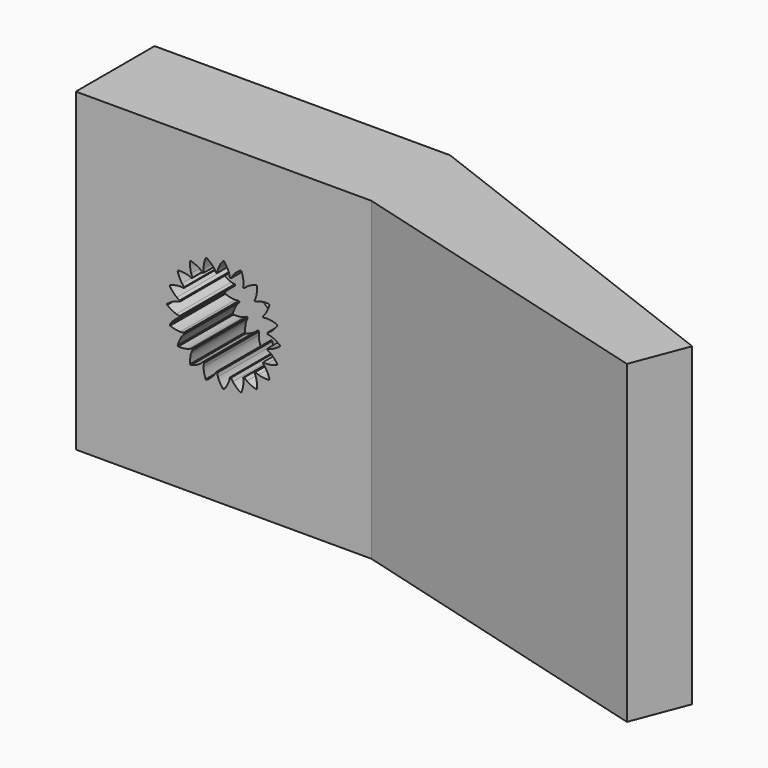
from build123d import *

# Parameters (mm, degrees)
EXTRUDE_DEPTH           = 10
EXTRUDE_PLACEMENT_ANGLE = 90
PAD_DEPTH               = 16
SKETCH003_R             = 1
POCKET001_DEPTH         = 5


with BuildPart() as extrude_body:
    # InvoluteGear → Extrude (new body)
    with BuildSketch(Plane.XY):
        with BuildLine():
            add(Edge.make_bspline(
                [(2.230951, -0.318585), (2.268323, -0.316088), (2.326191, -0.307758), (2.402921, -0.283523)],
                knots=[0, 0, 0, 0, 1, 1, 1, 1], degree=3))
            add(Edge.make_bspline(
                [(2.402921, -0.283523), (2.521883, -0.245647), (2.680793, -0.171115), (2.86047, -0.026137)],
                knots=[0, 0, 0, 0, 1, 1, 1, 1], degree=3))
            ThreePointArc((2.86047, -0.026137), (2.860295, 0.000166), (2.859878, 0.026465))
            add(Edge.make_bspline(
                [(2.859878, 0.026465), (2.680793, 0.171115), (2.521883, 0.245647), (2.402921, 0.283523)],
                knots=[0, 0, 0, 0, 1, 1, 1, 1], degree=3))
            add(Edge.make_bspline(
                [(2.402921, 0.283523), (2.326191, 0.307758), (2.268323, 0.316088), (2.231065, 0.318569)],
                knots=[0, 0, 0, 0, 1, 1, 1, 1], degree=3))
            ThreePointArc((2.231065, 0.318569), (2.222816, 0.352038), (2.220209, 0.38641))
            add(Edge.make_bspline(
                [(2.220209, 0.38641), (2.25498, 0.400333), (2.307442, 0.426137), (2.372927, 0.472897)],
                knots=[0, 0, 0, 0, 1, 1, 1, 1], degree=3))
            add(Edge.make_bspline(
                [(2.372927, 0.472897), (2.474363, 0.545681), (2.602463, 0.665671), (2.728545, 0.859076)],
                knots=[0, 0, 0, 0, 1, 1, 1, 1], degree=3))
            ThreePointArc((2.728545, 0.859076), (2.720251, 0.884037), (2.711727, 0.908921))
            add(Edge.make_bspline(
                [(2.711727, 0.908921), (2.496708, 0.99115), (2.322544, 1.012929), (2.1977, 1.01219)],
                knots=[0, 0, 0, 0, 1, 1, 1, 1], degree=3))
            add(Edge.make_bspline(
                [(2.1977, 1.01219), (2.117237, 1.011528), (2.059627, 1.001568), (2.023426, 0.992414)],
                knots=[0, 0, 0, 0, 1, 1, 1, 1], degree=3))
            ThreePointArc((2.023426, 0.992414), (2.005238, 1.021696), (1.992137, 1.05358))
            add(Edge.make_bspline(
                [(1.992137, 1.05358), (2.020904, 1.077567), (2.062824, 1.118319), (2.110654, 1.183027)],
                knots=[0, 0, 0, 0, 1, 1, 1, 1], degree=3))
            add(Edge.make_bspline(
                [(2.110654, 1.183027), (2.184634, 1.283593), (2.269386, 1.437296), (2.329531, 1.660197)],
                knots=[0, 0, 0, 0, 1, 1, 1, 1], degree=3))
            ThreePointArc((2.329531, 1.660197), (2.313929, 1.681373), (2.298134, 1.702405))
            add(Edge.make_bspline(
                [(2.298134, 1.702405), (2.068228, 1.714165), (1.895859, 1.681058), (1.777353, 1.641776)],
                knots=[0, 0, 0, 0, 1, 1, 1, 1], degree=3))
            add(Edge.make_bspline(
                [(1.777353, 1.641776), (1.701032, 1.616282), (1.649321, 1.589007), (1.617719, 1.569115)],
                knots=[0, 0, 0, 0, 1, 1, 1, 1], degree=3))
            ThreePointArc((1.617719, 1.569115), (1.591373, 1.591343), (1.569061, 1.617618))
            add(Edge.make_bspline(
                [(1.569061, 1.617618), (1.589007, 1.649321), (1.616282, 1.701032), (1.641776, 1.777353)],
                knots=[0, 0, 0, 0, 1, 1, 1, 1], degree=3))
            add(Edge.make_bspline(
                [(1.641776, 1.777353), (1.681058, 1.895859), (1.714165, 2.068228), (1.702487, 2.298806)],
                knots=[0, 0, 0, 0, 1, 1, 1, 1], degree=3))
            ThreePointArc((1.702487, 2.298806), (1.681105, 2.314124), (1.659583, 2.329245))
            add(Edge.make_bspline(
                [(1.659583, 2.329245), (1.437296, 2.269386), (1.283593, 2.184634), (1.183027, 2.110654)],
                knots=[0, 0, 0, 0, 1, 1, 1, 1], degree=3))
            add(Edge.make_bspline(
                [(1.183027, 2.110654), (1.118319, 2.062824), (1.077567, 2.020904), (1.053659, 1.99222)],
                knots=[0, 0, 0, 0, 1, 1, 1, 1], degree=3))
            ThreePointArc((1.053659, 1.99222), (1.021734, 2.005219), (0.992394, 2.023312))
            add(Edge.make_bspline(
                [(0.992394, 2.023312), (1.001568, 2.059627), (1.011528, 2.117237), (1.01219, 2.1977)],
                knots=[0, 0, 0, 0, 1, 1, 1, 1], degree=3))
            add(Edge.make_bspline(
                [(1.01219, 2.1977), (1.012929, 2.322544), (0.99115, 2.496708), (0.908791, 2.712392)],
                knots=[0, 0, 0, 0, 1, 1, 1, 1], degree=3))
            ThreePointArc((0.908791, 2.712392), (0.883722, 2.720353), (0.858581, 2.728083))
            add(Edge.make_bspline(
                [(0.858581, 2.728083), (0.665671, 2.602463), (0.545681, 2.474363), (0.472897, 2.372927)],
                knots=[0, 0, 0, 0, 1, 1, 1, 1], degree=3))
            add(Edge.make_bspline(
                [(0.472897, 2.372927), (0.426137, 2.307442), (0.400333, 2.25498), (0.38646, 2.220312)],
                knots=[0, 0, 0, 0, 1, 1, 1, 1], degree=3))
            ThreePointArc((0.38646, 2.220312), (0.35208, 2.22281), (0.318585, 2.230951))
            add(Edge.make_bspline(
                [(0.318585, 2.230951), (0.316088, 2.268323), (0.307758, 2.326191), (0.283523, 2.402921)],
                knots=[0, 0, 0, 0, 1, 1, 1, 1], degree=3))
            add(Edge.make_bspline(
                [(0.283523, 2.402921), (0.245647, 2.521883), (0.171115, 2.680793), (0.026137, 2.86047)],
                knots=[0, 0, 0, 0, 1, 1, 1, 1], degree=3))
            ThreePointArc((0.026137, 2.86047), (-0.000166, 2.860295), (-0.026465, 2.859878))
            add(Edge.make_bspline(
                [(-0.026465, 2.859878), (-0.171115, 2.680793), (-0.245647, 2.521883), (-0.283523, 2.402921)],
                knots=[0, 0, 0, 0, 1, 1, 1, 1], degree=3))
            add(Edge.make_bspline(
                [(-0.283523, 2.402921), (-0.307758, 2.326191), (-0.316088, 2.268323), (-0.318569, 2.231065)],
                knots=[0, 0, 0, 0, 1, 1, 1, 1], degree=3))
            ThreePointArc((-0.318569, 2.231065), (-0.352038, 2.222816), (-0.38641, 2.220209))
            add(Edge.make_bspline(
                [(-0.38641, 2.220209), (-0.400333, 2.25498), (-0.426137, 2.307442), (-0.472897, 2.372927)],
                knots=[0, 0, 0, 0, 1, 1, 1, 1], degree=3))
            add(Edge.make_bspline(
                [(-0.472897, 2.372927), (-0.545681, 2.474363), (-0.665671, 2.602463), (-0.859076, 2.728545)],
                knots=[0, 0, 0, 0, 1, 1, 1, 1], degree=3))
            ThreePointArc((-0.859076, 2.728545), (-0.884037, 2.720251), (-0.908921, 2.711727))
            add(Edge.make_bspline(
                [(-0.908921, 2.711727), (-0.99115, 2.496708), (-1.012929, 2.322544), (-1.01219, 2.1977)],
                knots=[0, 0, 0, 0, 1, 1, 1, 1], degree=3))
            add(Edge.make_bspline(
                [(-1.01219, 2.1977), (-1.011528, 2.117237), (-1.001568, 2.059627), (-0.992414, 2.023426)],
                knots=[0, 0, 0, 0, 1, 1, 1, 1], degree=3))
            ThreePointArc((-0.992414, 2.023426), (-1.021696, 2.005238), (-1.05358, 1.992137))
            add(Edge.make_bspline(
                [(-1.05358, 1.992137), (-1.077567, 2.020904), (-1.118319, 2.062824), (-1.183027, 2.110654)],
                knots=[0, 0, 0, 0, 1, 1, 1, 1], degree=3))
            add(Edge.make_bspline(
                [(-1.183027, 2.110654), (-1.283593, 2.184634), (-1.437296, 2.269386), (-1.660197, 2.329531)],
                knots=[0, 0, 0, 0, 1, 1, 1, 1], degree=3))
            ThreePointArc((-1.660197, 2.329531), (-1.681373, 2.313929), (-1.702405, 2.298134))
            add(Edge.make_bspline(
                [(-1.702405, 2.298134), (-1.714165, 2.068228), (-1.681058, 1.895859), (-1.641776, 1.777353)],
                knots=[0, 0, 0, 0, 1, 1, 1, 1], degree=3))
            add(Edge.make_bspline(
                [(-1.641776, 1.777353), (-1.616282, 1.701032), (-1.589007, 1.649321), (-1.569115, 1.617719)],
                knots=[0, 0, 0, 0, 1, 1, 1, 1], degree=3))
            ThreePointArc((-1.569115, 1.617719), (-1.591343, 1.591373), (-1.617618, 1.569061))
            add(Edge.make_bspline(
                [(-1.617618, 1.569061), (-1.649321, 1.589007), (-1.701032, 1.616282), (-1.777353, 1.641776)],
                knots=[0, 0, 0, 0, 1, 1, 1, 1], degree=3))
            add(Edge.make_bspline(
                [(-1.777353, 1.641776), (-1.895859, 1.681058), (-2.068228, 1.714165), (-2.298806, 1.702487)],
                knots=[0, 0, 0, 0, 1, 1, 1, 1], degree=3))
            ThreePointArc((-2.298806, 1.702487), (-2.314124, 1.681105), (-2.329245, 1.659583))
            add(Edge.make_bspline(
                [(-2.329245, 1.659583), (-2.269386, 1.437296), (-2.184634, 1.283593), (-2.110654, 1.183027)],
                knots=[0, 0, 0, 0, 1, 1, 1, 1], degree=3))
            add(Edge.make_bspline(
                [(-2.110654, 1.183027), (-2.062824, 1.118319), (-2.020904, 1.077567), (-1.99222, 1.053659)],
                knots=[0, 0, 0, 0, 1, 1, 1, 1], degree=3))
            ThreePointArc((-1.99222, 1.053659), (-2.005219, 1.021734), (-2.023312, 0.992394))
            add(Edge.make_bspline(
                [(-2.023312, 0.992394), (-2.059627, 1.001568), (-2.117237, 1.011528), (-2.1977, 1.01219)],
                knots=[0, 0, 0, 0, 1, 1, 1, 1], degree=3))
            add(Edge.make_bspline(
                [(-2.1977, 1.01219), (-2.322544, 1.012929), (-2.496708, 0.99115), (-2.712392, 0.908791)],
                knots=[0, 0, 0, 0, 1, 1, 1, 1], degree=3))
            ThreePointArc((-2.712392, 0.908791), (-2.720353, 0.883722), (-2.728083, 0.858581))
            add(Edge.make_bspline(
                [(-2.728083, 0.858581), (-2.602463, 0.665671), (-2.474363, 0.545681), (-2.372927, 0.472897)],
                knots=[0, 0, 0, 0, 1, 1, 1, 1], degree=3))
            add(Edge.make_bspline(
                [(-2.372927, 0.472897), (-2.307442, 0.426137), (-2.25498, 0.400333), (-2.220312, 0.38646)],
                knots=[0, 0, 0, 0, 1, 1, 1, 1], degree=3))
            ThreePointArc((-2.220312, 0.38646), (-2.22281, 0.35208), (-2.230951, 0.318585))
            add(Edge.make_bspline(
                [(-2.230951, 0.318585), (-2.268323, 0.316088), (-2.326191, 0.307758), (-2.402921, 0.283523)],
                knots=[0, 0, 0, 0, 1, 1, 1, 1], degree=3))
            add(Edge.make_bspline(
                [(-2.402921, 0.283523), (-2.521883, 0.245647), (-2.680793, 0.171115), (-2.86047, 0.026137)],
                knots=[0, 0, 0, 0, 1, 1, 1, 1], degree=3))
            ThreePointArc((-2.86047, 0.026137), (-2.860295, -0.000166), (-2.859878, -0.026465))
            add(Edge.make_bspline(
                [(-2.859878, -0.026465), (-2.680793, -0.171115), (-2.521883, -0.245647), (-2.402921, -0.283523)],
                knots=[0, 0, 0, 0, 1, 1, 1, 1], degree=3))
            add(Edge.make_bspline(
                [(-2.402921, -0.283523), (-2.326191, -0.307758), (-2.268323, -0.316088), (-2.231065, -0.318569)],
                knots=[0, 0, 0, 0, 1, 1, 1, 1], degree=3))
            ThreePointArc((-2.231065, -0.318569), (-2.222816, -0.352038), (-2.220209, -0.38641))
            add(Edge.make_bspline(
                [(-2.220209, -0.38641), (-2.25498, -0.400333), (-2.307442, -0.426137), (-2.372927, -0.472897)],
                knots=[0, 0, 0, 0, 1, 1, 1, 1], degree=3))
            add(Edge.make_bspline(
                [(-2.372927, -0.472897), (-2.474363, -0.545681), (-2.602463, -0.665671), (-2.728545, -0.859076)],
                knots=[0, 0, 0, 0, 1, 1, 1, 1], degree=3))
            ThreePointArc((-2.728545, -0.859076), (-2.720251, -0.884037), (-2.711727, -0.908921))
            add(Edge.make_bspline(
                [(-2.711727, -0.908921), (-2.496708, -0.99115), (-2.322544, -1.012929), (-2.1977, -1.01219)],
                knots=[0, 0, 0, 0, 1, 1, 1, 1], degree=3))
            add(Edge.make_bspline(
                [(-2.1977, -1.01219), (-2.117237, -1.011528), (-2.059627, -1.001568), (-2.023426, -0.992414)],
                knots=[0, 0, 0, 0, 1, 1, 1, 1], degree=3))
            ThreePointArc((-2.023426, -0.992414), (-2.005238, -1.021696), (-1.992137, -1.05358))
            add(Edge.make_bspline(
                [(-1.992137, -1.05358), (-2.020904, -1.077567), (-2.062824, -1.118319), (-2.110654, -1.183027)],
                knots=[0, 0, 0, 0, 1, 1, 1, 1], degree=3))
            add(Edge.make_bspline(
                [(-2.110654, -1.183027), (-2.184634, -1.283593), (-2.269386, -1.437296), (-2.329531, -1.660197)],
                knots=[0, 0, 0, 0, 1, 1, 1, 1], degree=3))
            ThreePointArc((-2.329531, -1.660197), (-2.313929, -1.681373), (-2.298134, -1.702405))
            add(Edge.make_bspline(
                [(-2.298134, -1.702405), (-2.068228, -1.714165), (-1.895859, -1.681058), (-1.777353, -1.641776)],
                knots=[0, 0, 0, 0, 1, 1, 1, 1], degree=3))
            add(Edge.make_bspline(
                [(-1.777353, -1.641776), (-1.701032, -1.616282), (-1.649321, -1.589007), (-1.617719, -1.569115)],
                knots=[0, 0, 0, 0, 1, 1, 1, 1], degree=3))
            ThreePointArc((-1.617719, -1.569115), (-1.591373, -1.591343), (-1.569061, -1.617618))
            add(Edge.make_bspline(
                [(-1.569061, -1.617618), (-1.589007, -1.649321), (-1.616282, -1.701032), (-1.641776, -1.777353)],
                knots=[0, 0, 0, 0, 1, 1, 1, 1], degree=3))
            add(Edge.make_bspline(
                [(-1.641776, -1.777353), (-1.681058, -1.895859), (-1.714165, -2.068228), (-1.702487, -2.298806)],
                knots=[0, 0, 0, 0, 1, 1, 1, 1], degree=3))
            ThreePointArc((-1.702487, -2.298806), (-1.681105, -2.314124), (-1.659583, -2.329245))
            add(Edge.make_bspline(
                [(-1.659583, -2.329245), (-1.437296, -2.269386), (-1.283593, -2.184634), (-1.183027, -2.110654)],
                knots=[0, 0, 0, 0, 1, 1, 1, 1], degree=3))
            add(Edge.make_bspline(
                [(-1.183027, -2.110654), (-1.118319, -2.062824), (-1.077567, -2.020904), (-1.053659, -1.99222)],
                knots=[0, 0, 0, 0, 1, 1, 1, 1], degree=3))
            ThreePointArc((-1.053659, -1.99222), (-1.021734, -2.005219), (-0.992394, -2.023312))
            add(Edge.make_bspline(
                [(-0.992394, -2.023312), (-1.001568, -2.059627), (-1.011528, -2.117237), (-1.01219, -2.1977)],
                knots=[0, 0, 0, 0, 1, 1, 1, 1], degree=3))
            add(Edge.make_bspline(
                [(-1.01219, -2.1977), (-1.012929, -2.322544), (-0.99115, -2.496708), (-0.908791, -2.712392)],
                knots=[0, 0, 0, 0, 1, 1, 1, 1], degree=3))
            ThreePointArc((-0.908791, -2.712392), (-0.883722, -2.720353), (-0.858581, -2.728083))
            add(Edge.make_bspline(
                [(-0.858581, -2.728083), (-0.665671, -2.602463), (-0.545681, -2.474363), (-0.472897, -2.372927)],
                knots=[0, 0, 0, 0, 1, 1, 1, 1], degree=3))
            add(Edge.make_bspline(
                [(-0.472897, -2.372927), (-0.426137, -2.307442), (-0.400333, -2.25498), (-0.38646, -2.220312)],
                knots=[0, 0, 0, 0, 1, 1, 1, 1], degree=3))
            ThreePointArc((-0.38646, -2.220312), (-0.35208, -2.22281), (-0.318585, -2.230951))
            add(Edge.make_bspline(
                [(-0.318585, -2.230951), (-0.316088, -2.268323), (-0.307758, -2.326191), (-0.283523, -2.402921)],
                knots=[0, 0, 0, 0, 1, 1, 1, 1], degree=3))
            add(Edge.make_bspline(
                [(-0.283523, -2.402921), (-0.245647, -2.521883), (-0.171115, -2.680793), (-0.026137, -2.86047)],
                knots=[0, 0, 0, 0, 1, 1, 1, 1], degree=3))
            ThreePointArc((-0.026137, -2.86047), (0.000166, -2.860295), (0.026465, -2.859878))
            add(Edge.make_bspline(
                [(0.026465, -2.859878), (0.171115, -2.680793), (0.245647, -2.521883), (0.283523, -2.402921)],
                knots=[0, 0, 0, 0, 1, 1, 1, 1], degree=3))
            add(Edge.make_bspline(
                [(0.283523, -2.402921), (0.307758, -2.326191), (0.316088, -2.268323), (0.318569, -2.231065)],
                knots=[0, 0, 0, 0, 1, 1, 1, 1], degree=3))
            ThreePointArc((0.318569, -2.231065), (0.352038, -2.222816), (0.38641, -2.220209))
            add(Edge.make_bspline(
                [(0.38641, -2.220209), (0.400333, -2.25498), (0.426137, -2.307442), (0.472897, -2.372927)],
                knots=[0, 0, 0, 0, 1, 1, 1, 1], degree=3))
            add(Edge.make_bspline(
                [(0.472897, -2.372927), (0.545681, -2.474363), (0.665671, -2.602463), (0.859076, -2.728545)],
                knots=[0, 0, 0, 0, 1, 1, 1, 1], degree=3))
            ThreePointArc((0.859076, -2.728545), (0.884037, -2.720251), (0.908921, -2.711727))
            add(Edge.make_bspline(
                [(0.908921, -2.711727), (0.99115, -2.496708), (1.012929, -2.322544), (1.01219, -2.1977)],
                knots=[0, 0, 0, 0, 1, 1, 1, 1], degree=3))
            add(Edge.make_bspline(
                [(1.01219, -2.1977), (1.011528, -2.117237), (1.001568, -2.059627), (0.992414, -2.023426)],
                knots=[0, 0, 0, 0, 1, 1, 1, 1], degree=3))
            ThreePointArc((0.992414, -2.023426), (1.021696, -2.005238), (1.05358, -1.992137))
            add(Edge.make_bspline(
                [(1.05358, -1.992137), (1.077567, -2.020904), (1.118319, -2.062824), (1.183027, -2.110654)],
                knots=[0, 0, 0, 0, 1, 1, 1, 1], degree=3))
            add(Edge.make_bspline(
                [(1.183027, -2.110654), (1.283593, -2.184634), (1.437296, -2.269386), (1.660197, -2.329531)],
                knots=[0, 0, 0, 0, 1, 1, 1, 1], degree=3))
            ThreePointArc((1.660197, -2.329531), (1.681373, -2.313929), (1.702405, -2.298134))
            add(Edge.make_bspline(
                [(1.702405, -2.298134), (1.714165, -2.068228), (1.681058, -1.895859), (1.641776, -1.777353)],
                knots=[0, 0, 0, 0, 1, 1, 1, 1], degree=3))
            add(Edge.make_bspline(
                [(1.641776, -1.777353), (1.616282, -1.701032), (1.589007, -1.649321), (1.569115, -1.617719)],
                knots=[0, 0, 0, 0, 1, 1, 1, 1], degree=3))
            ThreePointArc((1.569115, -1.617719), (1.591343, -1.591373), (1.617618, -1.569061))
            add(Edge.make_bspline(
                [(1.617618, -1.569061), (1.649321, -1.589007), (1.701032, -1.616282), (1.777353, -1.641776)],
                knots=[0, 0, 0, 0, 1, 1, 1, 1], degree=3))
            add(Edge.make_bspline(
                [(1.777353, -1.641776), (1.895859, -1.681058), (2.068228, -1.714165), (2.298806, -1.702487)],
                knots=[0, 0, 0, 0, 1, 1, 1, 1], degree=3))
            ThreePointArc((2.298806, -1.702487), (2.314124, -1.681105), (2.329245, -1.659583))
            add(Edge.make_bspline(
                [(2.329245, -1.659583), (2.269386, -1.437296), (2.184634, -1.283593), (2.110654, -1.183027)],
                knots=[0, 0, 0, 0, 1, 1, 1, 1], degree=3))
            add(Edge.make_bspline(
                [(2.110654, -1.183027), (2.062824, -1.118319), (2.020904, -1.077567), (1.99222, -1.053659)],
                knots=[0, 0, 0, 0, 1, 1, 1, 1], degree=3))
            ThreePointArc((1.99222, -1.053659), (2.005219, -1.021734), (2.023312, -0.992394))
            add(Edge.make_bspline(
                [(2.023312, -0.992394), (2.059627, -1.001568), (2.117237, -1.011528), (2.1977, -1.01219)],
                knots=[0, 0, 0, 0, 1, 1, 1, 1], degree=3))
            add(Edge.make_bspline(
                [(2.1977, -1.01219), (2.322544, -1.012929), (2.496708, -0.99115), (2.712392, -0.908791)],
                knots=[0, 0, 0, 0, 1, 1, 1, 1], degree=3))
            ThreePointArc((2.712392, -0.908791), (2.720353, -0.883722), (2.728083, -0.858581))
            add(Edge.make_bspline(
                [(2.728083, -0.858581), (2.602463, -0.665671), (2.474363, -0.545681), (2.372927, -0.472897)],
                knots=[0, 0, 0, 0, 1, 1, 1, 1], degree=3))
            add(Edge.make_bspline(
                [(2.372927, -0.472897), (2.307442, -0.426137), (2.25498, -0.400333), (2.220312, -0.38646)],
                knots=[0, 0, 0, 0, 1, 1, 1, 1], degree=3))
            ThreePointArc((2.220312, -0.38646), (2.22281, -0.35208), (2.230951, -0.318585))
        make_face()
    extrude(amount=EXTRUDE_DEPTH)


with BuildPart() as extrude_body_1:
    # Extrude placement: moved
    add(extrude_body.part.moved(Location((0, 1, 8))).rotate(Axis((0, 1, 8), (1, 0, 0)), EXTRUDE_PLACEMENT_ANGLE))


with BuildPart() as cut:
    # Sketch → Pad (new body)
    with BuildSketch(Plane.XY):
        Polygon((-7.5, -2.5), (7.5, -2.5), (24.162924, -7.109732), (25.238028, -4.308991), (7.5, 2.5), (-7.5, 2.5), align=None)
    extrude(amount=PAD_DEPTH)

    # Sketch003 → Pocket001 (cut)
    with BuildSketch(Plane.XZ.offset(-0.75)):
        with Locations((0, 8)):
            Circle(SKETCH003_R)
    extrude(amount=-POCKET001_DEPTH, mode=Mode.SUBTRACT)

    # Cut: cut Extrude body
    add(extrude_body_1.part, mode=Mode.SUBTRACT)


solid = cut.part
